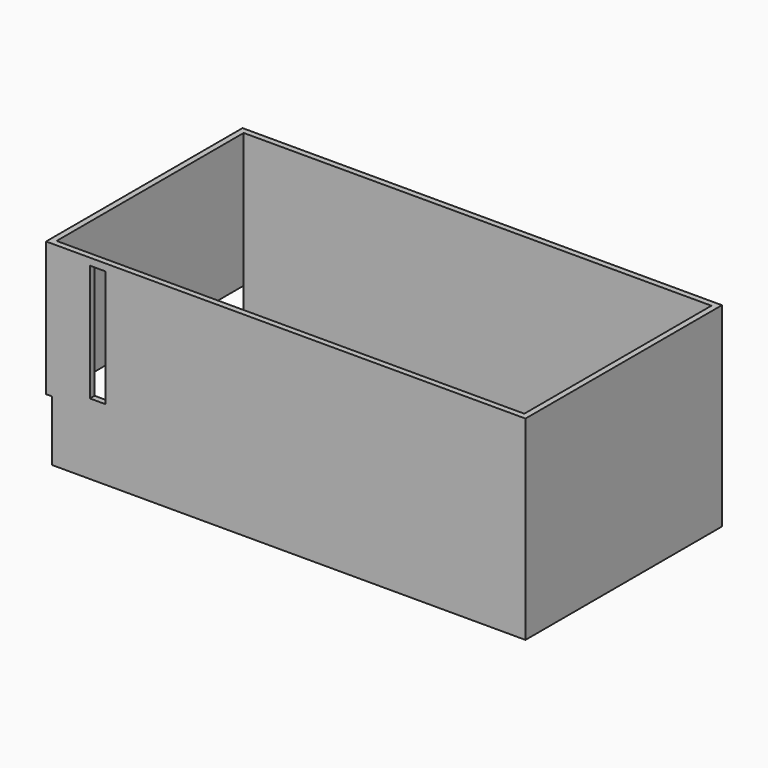
from build123d import *

# Parameters (mm, degrees)
F0_W     = 1230
F0_H     = 630
F0_W_2   = 1200
F0_H_2   = 600
F1_DEPTH = 500
F2_W     = 40
F2_H     = 300
F3_DEPTH = 25
F4_W     = 630
F4_H     = 155
F5_DEPTH = 15


with BuildPart() as f1:
    # F0 (on Top) → F1 (new body)
    with BuildSketch(Plane.XY):
        Rectangle(F0_W, F0_H)
        Rectangle(F0_W_2, F0_H_2, mode=Mode.SUBTRACT)
    extrude(amount=F1_DEPTH)

    # F2 (on face) → F3 (cut)
    with BuildSketch(Plane(origin=(0, -300, 0), x_dir=(-1, 0, 0), z_dir=(0, 1, 0))):
        with Locations((482.5, 332)):
            Rectangle(F2_W, F2_H)
    extrude(amount=-F3_DEPTH, mode=Mode.SUBTRACT)

    # F4 (on face) → F5 (cut)
    with BuildSketch(Plane(origin=(-615, 0, 0), x_dir=(0, -1, 0), z_dir=(-1, 0, 0))):
        with Locations((0, 77.5)):
            Rectangle(F4_W, F4_H)
    extrude(amount=-F5_DEPTH, mode=Mode.SUBTRACT)


solid = f1.part
